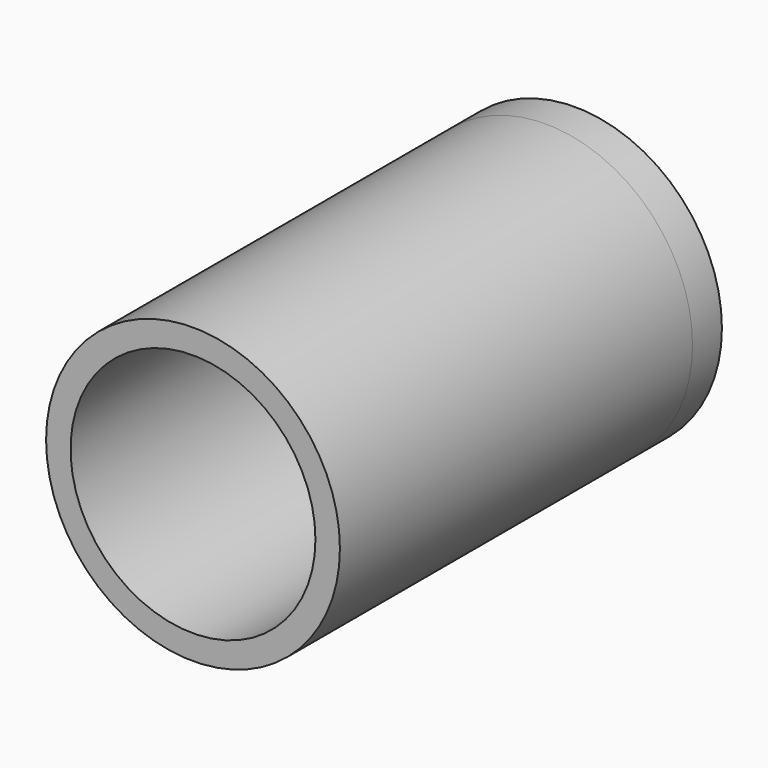
from build123d import *

# Parameters (mm, degrees)
F0_R     = 38.1
F0_R_2   = 31.75
F1_DEPTH = 123.825
F2_DEPTH = 9.525


with BuildPart() as f1:
    # F0 (on Front) → F1 (new body)
    with BuildSketch(Plane.XZ):
        Circle(F0_R)
        Circle(F0_R_2, mode=Mode.SUBTRACT)
    extrude(amount=F1_DEPTH)


with BuildPart() as f2:
    # F0 (on Front) → F2 (new body)
    with BuildSketch(Plane.XZ):
        Circle(F0_R)
        Circle(F0_R_2, mode=Mode.SUBTRACT)
    extrude(amount=F2_DEPTH)


solid = Compound([f1.part, f2.part])
